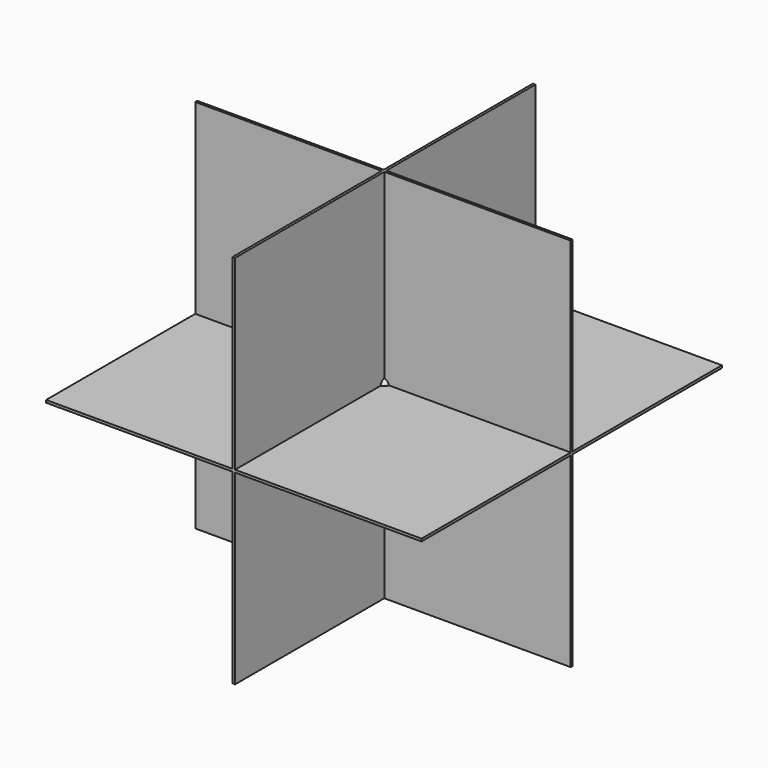
from build123d import *

# Parameters (mm, degrees)
F0_W     = 150
F0_H     = 150
F1_DEPTH = 0.5
F2_W     = 150
F2_H     = 150
F3_DEPTH = 0.5
F4_W     = 150
F4_H     = 150
F5_DEPTH = 0.5


with BuildPart() as f1:
    # F0 (on Front) → F1 (new body, symmetric)
    with BuildSketch(Plane.XZ):
        Rectangle(F0_W, F0_H)
    extrude(amount=F1_DEPTH, both=True)

    # F2 (on Top) → F3 (join, symmetric)
    with BuildSketch(Plane.XY):
        Rectangle(F2_W, F2_H)
    extrude(amount=F3_DEPTH, both=True)

    # F4 (on Right) → F5 (join, symmetric)
    with BuildSketch(Plane.YZ):
        Rectangle(F4_W, F4_H)
    extrude(amount=F5_DEPTH, both=True)


with BuildPart() as f7:
    # F6 (on Front) → F7 (revolve)
    with BuildSketch(Plane.XZ):
        with BuildLine():
            Line((0, 0), (0, -2.5))
            ThreePointArc((0, -2.5), (2.5, 0), (0, 2.5))
            Line((0, 2.5), (0, 0))
        make_face()
    revolve(axis=Axis((0, 0, 1.25), (0, 0, 1)))


solid = Compound([f1.part, f7.part])
